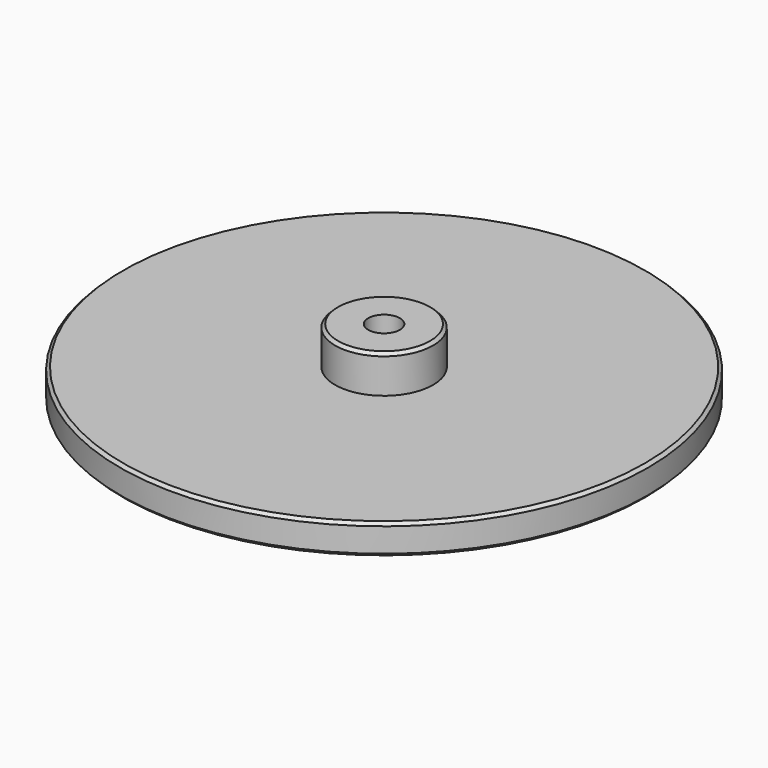
from build123d import *

# Parameters (mm, degrees)
F0_R     = 175
F0_R_2   = 32.5
F0_R_3   = 10.5
F1_DEPTH = 20
F2_DEPTH = 25
F3_SIZE  = 2


with BuildPart() as f1:
    # F0 (on Top) → F1 (new body)
    with BuildSketch(Plane.XY):
        Circle(F0_R)
        Circle(F0_R_2, mode=Mode.SUBTRACT)
        Circle(F0_R_2)
        Circle(F0_R_3, mode=Mode.SUBTRACT)
    extrude(amount=-F1_DEPTH)

    # F0 (on Top) → F2 (join)
    with BuildSketch(Plane.XY):
        Circle(F0_R_2)
        Circle(F0_R_3, mode=Mode.SUBTRACT)
    extrude(amount=F2_DEPTH)

    # F3
    f3_edges = [f1.edges().sort_by_distance(p)[0] for p in [
        (-175, 0, 0),
        (-175, 0, -20),
        (-32.5, 0, 25),
    ]]
    chamfer(f3_edges, length=F3_SIZE)


solid = f1.part
